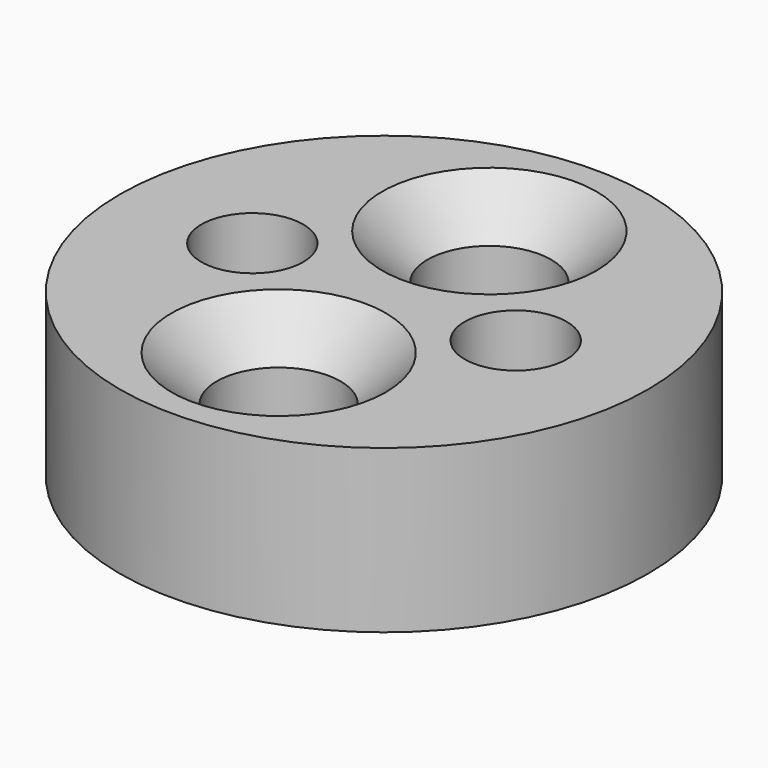
from build123d import *

# Parameters (mm, degrees)
F0_R     = 17.5
F0_R_2   = 4.1
F0_R_3   = 3.375
F1_DEPTH = 10.75
F2_SIZE  = 3


with BuildPart() as f1:
    # F0 (on Top) → F1 (new body)
    with BuildSketch(Plane.XY):
        Circle(F0_R)
        with Locations((0, -8.725)):
            Circle(F0_R_2, mode=Mode.SUBTRACT)
        with Locations((-8.725, 0)):
            Circle(F0_R_3, mode=Mode.SUBTRACT)
        with Locations((8.725, 0)):
            Circle(F0_R_3, mode=Mode.SUBTRACT)
        with Locations((0, 8.725)):
            Circle(F0_R_2, mode=Mode.SUBTRACT)
    extrude(amount=F1_DEPTH)

    # F2
    f2_edges = [f1.edges().sort_by_distance(p)[0] for p in [
        (-4.1, 8.725, 10.75),
        (-4.1, -8.725, 10.75),
    ]]
    chamfer(f2_edges, length=F2_SIZE)


solid = f1.part
